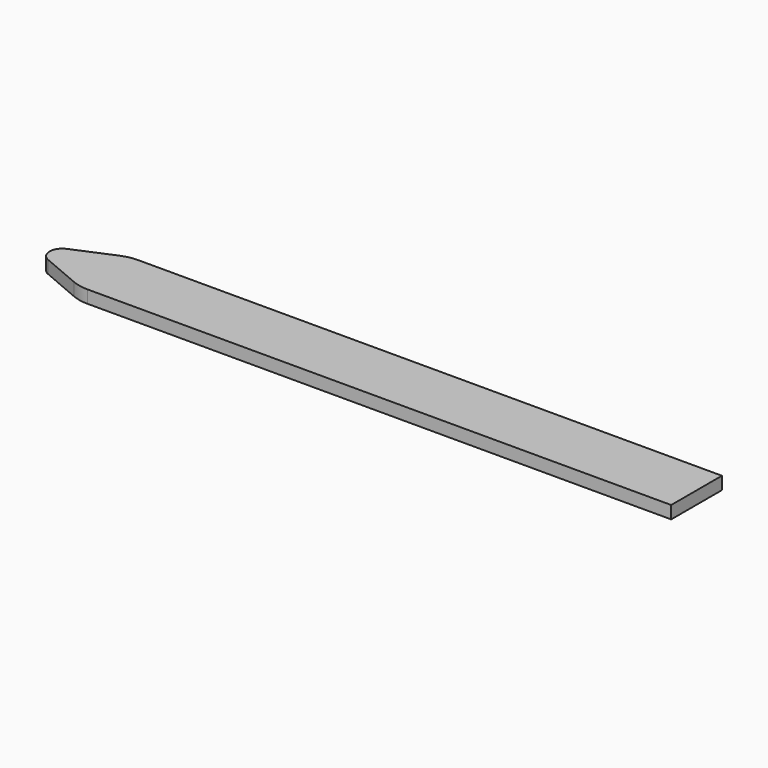
from build123d import *

# Parameters (mm, degrees)
F1_DEPTH = 3


with BuildPart() as f1:
    # F0 (on Top) → F1 (new body)
    with BuildSketch(Plane.XY):
        with BuildLine():
            Line((0, -7.5), (0, 0))
            Line((0, 0), (0, 7.5))
            Line((0, 7.5), (-138, 7.5))
            ThreePointArc((-138, 7.5), (-139.998529, 7.298259), (-141.916422, 6.701176))
            Line((-141.916422, 6.701176), (-151.174926, 2.760353))
            ThreePointArc((-151.174926, 2.760353), (-153, 0), (-151.174926, -2.760353))
            Line((-151.174926, -2.760353), (-141.916422, -6.701176))
            ThreePointArc((-141.916422, -6.701176), (-139.998529, -7.298259), (-138, -7.5))
            Line((-138, -7.5), (0, -7.5))
        make_face()
    extrude(amount=F1_DEPTH)


solid = f1.part
